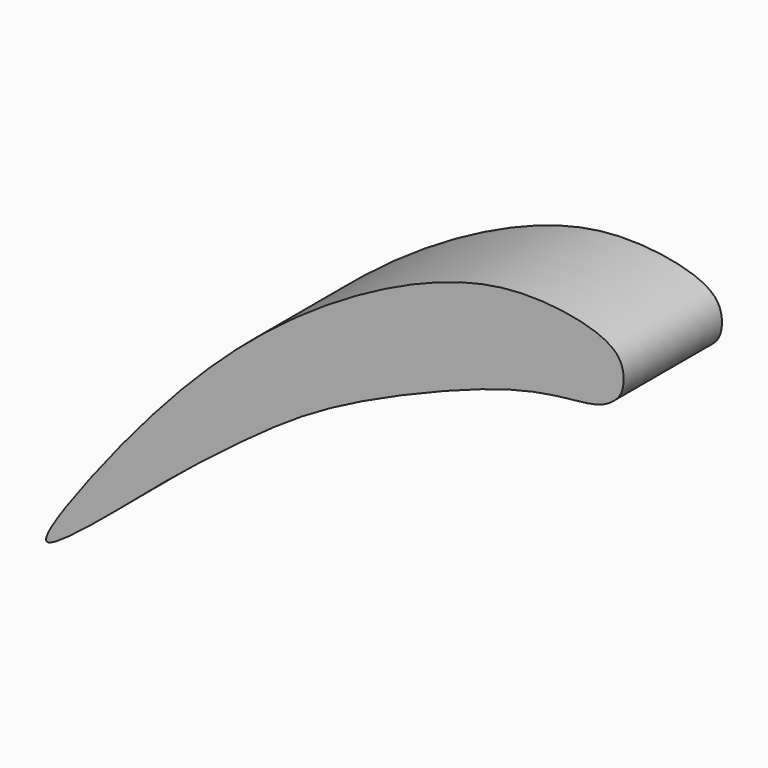
from build123d import *

# Parameters (mm, degrees)
F1_DEPTH = 50.8


with BuildPart() as f1:
    # F0 (on Front) → F1 (new body)
    with BuildSketch(Plane.XZ):
        with BuildLine():
            add(Edge.make_bspline(
                [(0, 0), (-2.9852695591, 0.4944847369), (21.6958822077, 36.020139757), (68.5767247709, 90.4988851353), (121.4973174848, 129.9099525548), (168.9870976642, 151.7201542927), (203.7481485016, 156.1924065209), (237.4025900593, 148.8535421329), (238.5412646981, 135.0055544026), (236.5311042548, 129.0951514346), (228.8618740221, 123.1835380925), (212.4799623715, 122.1693539007), (185.718015065, 117.7641068086), (123.2659877569, 92.0669519457), (89.9751859775, 70.3057664821), (59.4685181827, 46.7626508991), (43.6011756536, 33.7463254208), (3.6993419757, -0.6127648132), (0, 0)],
                knots=[0, 0, 0, 0, 0.062075864, 0.1599720557, 0.2483528433, 0.325420571, 0.3907160481, 0.4504332442, 0.4857498954, 0.511988334, 0.5437995868, 0.5860950006, 0.6430512476, 0.7318288869, 0.8027906776, 0.8664924569, 0.9230756737, 1, 1, 1, 1], degree=3))
        make_face()
    extrude(amount=F1_DEPTH)


solid = f1.part
